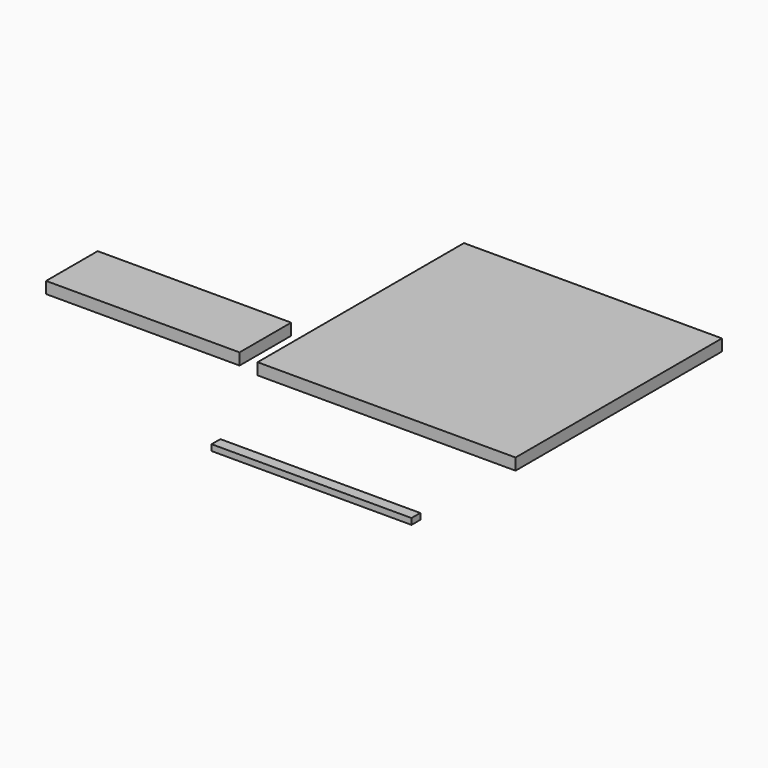
from build123d import *

# Parameters (mm, degrees)
F0_W     = 400
F0_H     = 400
F1_DEPTH = 18
F2_W     = 17
F2_H     = 9.4
F3_DEPTH = 310
F4_W     = 300
F4_H     = 100
F5_DEPTH = 18


with BuildPart() as f1:
    # F0 (on Top) → F1 (new body)
    with BuildSketch(Plane.XY):
        with Locations((159.509701, 172.939374)):
            Rectangle(F0_W, F0_H)
    extrude(amount=F1_DEPTH)


with BuildPart() as f3:
    # F2 (on Right) → F3 (new body)
    with BuildSketch(Plane.YZ):
        with Locations((-158.285493, -28.638394)):
            Rectangle(F2_W, F2_H)
    extrude(amount=F3_DEPTH)


with BuildPart() as f5:
    # F4 (on Top) → F5 (new body)
    with BuildSketch(Plane.XY):
        with Locations((-223.601973, 29.434749)):
            Rectangle(F4_W, F4_H)
    extrude(amount=F5_DEPTH)


solid = Compound([f1.part, f3.part, f5.part])
